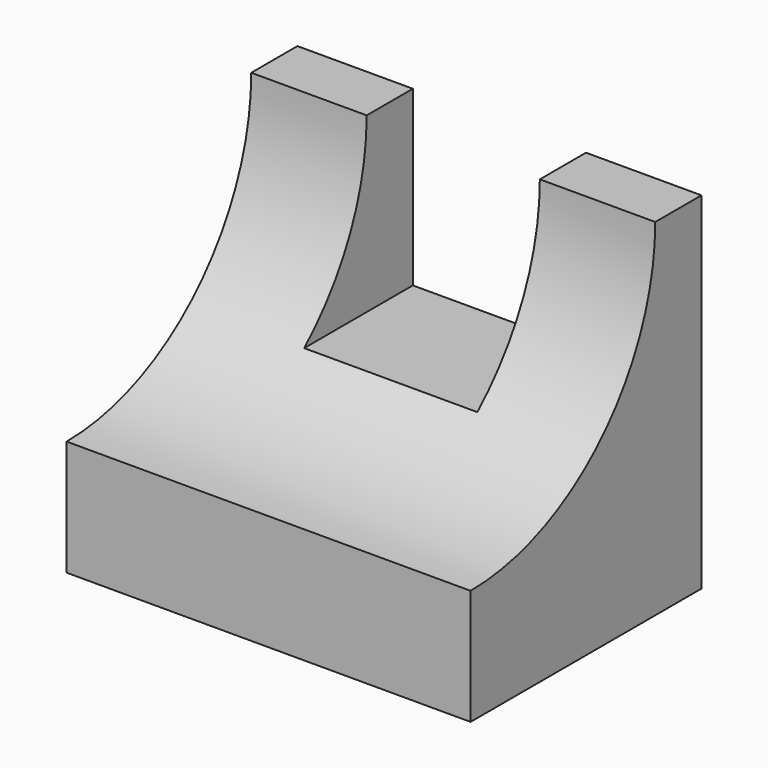
from build123d import *

# Parameters (mm, degrees)
F0_W     = 88.9
F0_H     = 76.2
F1_DEPTH = 63.5
F2_W     = 38.1
F2_H     = 38.1
F3_DEPTH = 63.501
F5_DEPTH = 88.901


with BuildPart() as f1:
    # F0 (on Front) → F1 (new body)
    with BuildSketch(Plane.XZ):
        with Locations((2.397262, -13.328955)):
            Rectangle(F0_W, F0_H)
    extrude(amount=F1_DEPTH)

    # F2 (on face) → F3 (cut, through all)
    with BuildSketch(Plane(origin=(0, 0, 0), x_dir=(-1, 0, 0), z_dir=(0, 1, 0))):
        with Locations((-2.397262, 5.721045)):
            Rectangle(F2_W, F2_H)
    extrude(amount=-F3_DEPTH, mode=Mode.SUBTRACT)

    # F4 (on face) → F5 (cut, through all)
    with BuildSketch(Plane(origin=(-42.052738, 0, 0), x_dir=(0, -1, 0), z_dir=(-1, 0, 0))):
        with BuildLine():
            Line((63.5, 24.771045), (12.7, 24.771045))
            ThreePointArc((12.7, 24.771045), (27.578976, -11.149979), (63.5, -26.028955))
            Line((63.5, -26.028955), (63.5, 24.771045))
        make_face()
    extrude(amount=-F5_DEPTH, mode=Mode.SUBTRACT)


solid = f1.part
